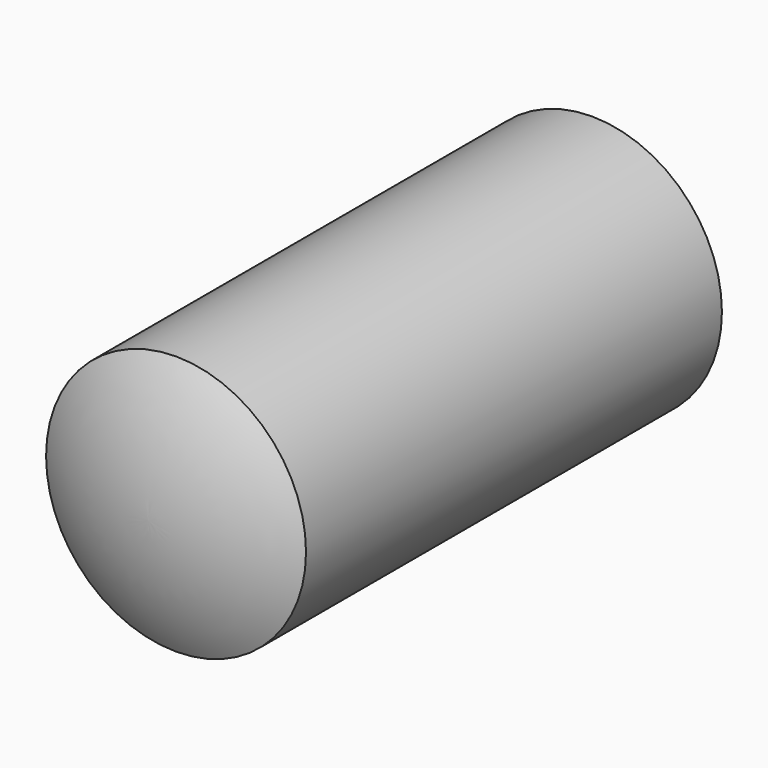
from build123d import *


with BuildPart() as part:
    # Sketch → Revolution (revolve)
    with BuildSketch(Plane.YZ):
        with BuildLine():
            ThreePointArc((21.339746, 0), (20.999004, 2.58819), (20, 5))
            Line((0, 5), (20, 5))
            ThreePointArc((0, 5), (-0.999004, 2.58819), (-1.339746, 0))
            Line((-1.339746, 0), (21.339746, 0))
        make_face()
    revolve(axis=Axis((0, 0, 0), (0, 1, 0)))


solid = part.part
